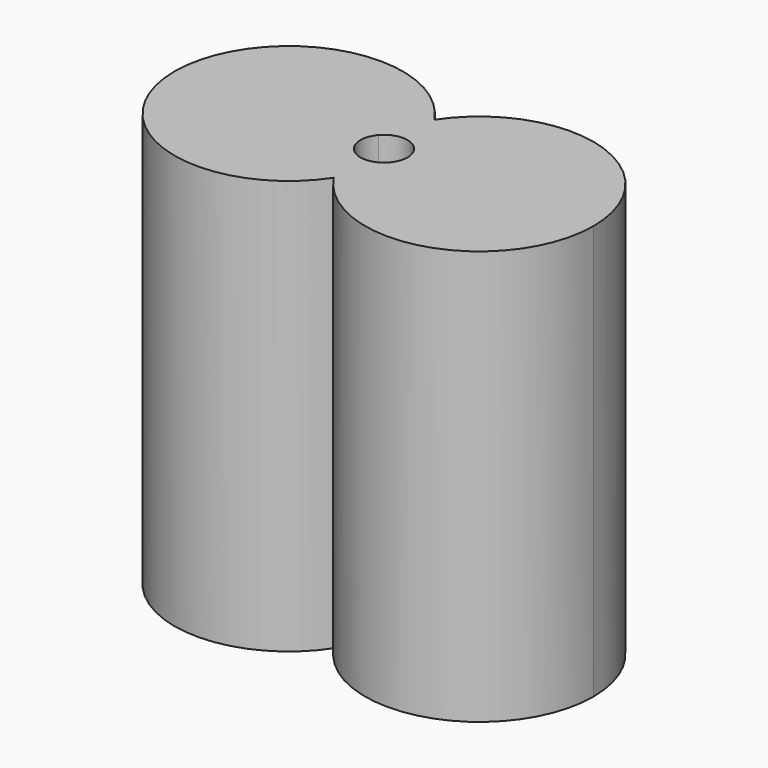
from build123d import *

# Parameters (mm, degrees)
F1_DEPTH = 17.6


with BuildPart() as f1:
    # F0 (on Top) → F1 (new body)
    with BuildSketch(Plane.XY):
        with BuildLine():
            ThreePointArc((0, 2.6683328128), (-8.9, 0), (0, -2.6683328128))
            ThreePointArc((0, -2.6683328128), (-0.4907607473, -1.7041102768), (-0.7555555556, -0.6550845766))
            ThreePointArc((-0.7555555556, -0.6550845766), (-1, 0), (-0.7555555556, 0.6550845766))
            ThreePointArc((-0.7555555556, 0.6550845766), (-0.4907607473, 1.7041102768), (0, 2.6683328128))
        make_face()
        with BuildLine():
            ThreePointArc((0.7555555556, 0.6550845766), (0.9368979548, 0.3496029494), (1, 0))
            ThreePointArc((1, 0), (0.9368979548, -0.3496029494), (0.7555555556, -0.6550845766))
            ThreePointArc((0.7555555556, -0.6550845766), (0.4907607473, -1.7041102768), (0, -2.6683328128))
            ThreePointArc((0, -2.6683328128), (5.4428388277, -4.6456969337), (8.9, 0))
            ThreePointArc((8.9, 0), (5.4428388277, 4.6456969337), (0, 2.6683328128))
            ThreePointArc((0, 2.6683328128), (0.4907607473, 1.7041102768), (0.7555555556, 0.6550845766))
        make_face()
        with BuildLine():
            ThreePointArc((0.7555555556, -0.6550845766), (0.4152802809, -0.9096935134), (0, -1))
            Line((0, -1), (0, -2.6683328128))
            ThreePointArc((0, -2.6683328128), (0.4907607473, -1.7041102768), (0.7555555556, -0.6550845766))
        make_face()
        with BuildLine():
            Line((0, -2.6683328128), (0, -1))
            ThreePointArc((0, -1), (-0.4152802809, -0.9096935134), (-0.7555555556, -0.6550845766))
            ThreePointArc((-0.7555555556, -0.6550845766), (-0.4907607473, -1.7041102768), (0, -2.6683328128))
        make_face()
        with BuildLine():
            ThreePointArc((-0.7555555556, 0.6550845766), (0, 1), (0.7555555556, 0.6550845766))
            ThreePointArc((0.7555555556, 0.6550845766), (0.4907607473, 1.7041102768), (0, 2.6683328128))
            ThreePointArc((0, 2.6683328128), (-0.4907607473, 1.7041102768), (-0.7555555556, 0.6550845766))
        make_face()
    extrude(amount=F1_DEPTH)


solid = f1.part
